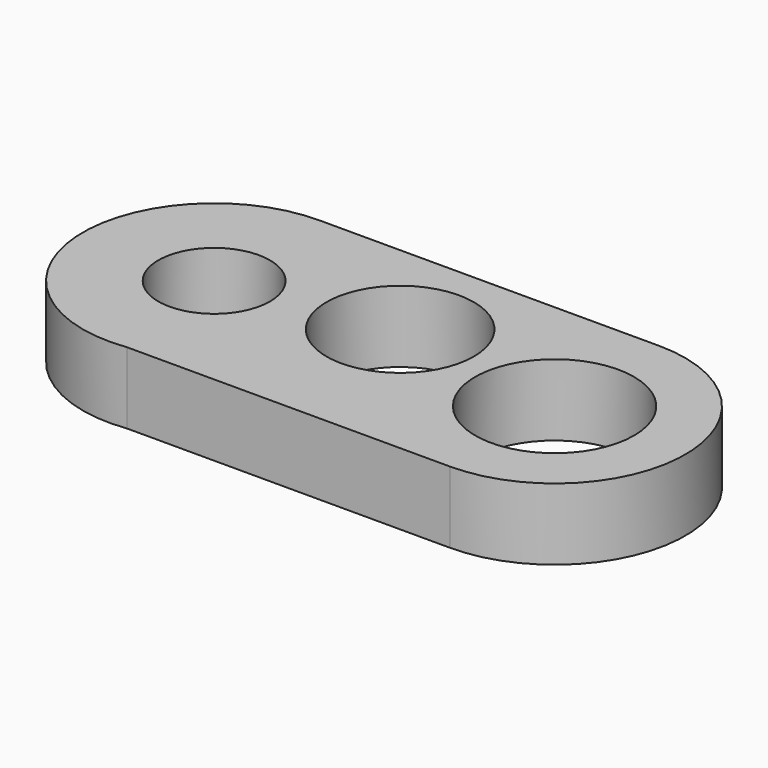
from build123d import *

# Parameters (mm, degrees)
F0_R     = 19.816044
F0_R_2   = 28.20738
F1_DEPTH = 25.4
F2_R     = 26.161068
F3_DEPTH = 95.89977


with BuildPart() as f1:
    # F0 (on Top) → F1 (new body)
    with BuildSketch(Plane.XY):
        with BuildLine():
            Line((62.286854, 37.119031), (-58.445372, 37.119031))
            ThreePointArc((-58.445372, 37.119031), (-104.95782, -12.516345), (-52.408755, -55.709794))
            Line((-52.408755, -55.709794), (62.286854, -55.709794))
            ThreePointArc((62.286854, -55.709794), (108.701266, -9.295382), (62.286854, 37.119031))
        make_face()
        with Locations((-58.445372, -9.491661)):
            Circle(F0_R, mode=Mode.SUBTRACT)
        with Locations((62.286854, -9.295382)):
            Circle(F0_R_2, mode=Mode.SUBTRACT)
    extrude(amount=F1_DEPTH)

    # F2 (on face) → F3 (cut)
    with BuildSketch(Plane.XY.offset(25.4)):
        Circle(F2_R)
    extrude(amount=-F3_DEPTH, mode=Mode.SUBTRACT)


solid = f1.part
